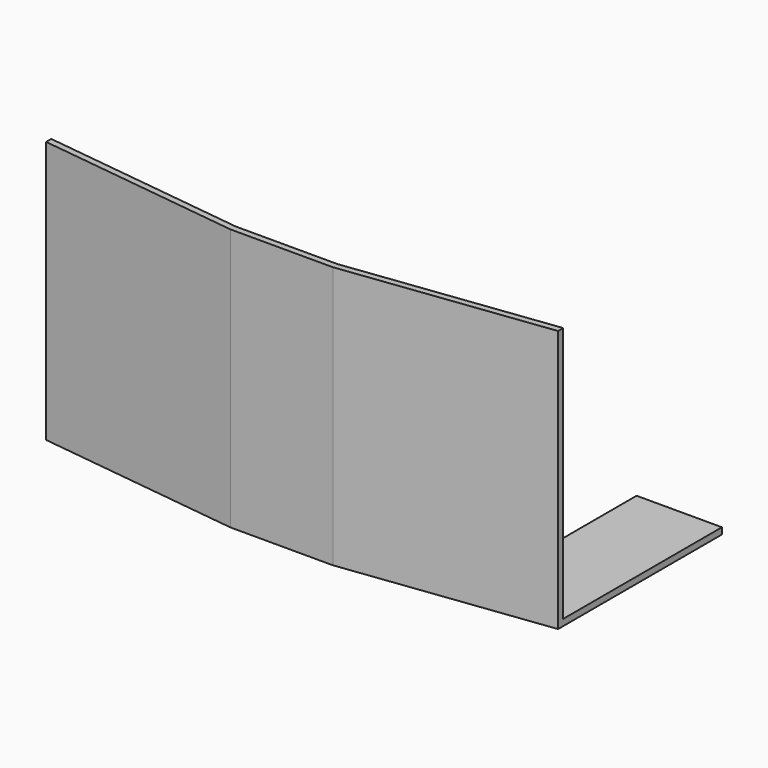
from build123d import *

# Parameters (mm, degrees)
F1_DEPTH = 19.05
F3_DEPTH = 762


with BuildPart() as f1:
    # F0 (on Top) → F1 (new body)
    with BuildSketch(Plane.XY):
        Polygon((-762, -463.445372), (-152.4, -539.645372), (0, -539.645372), (152.4, -539.645372), (762, -463.445372), (762, 146.154628), (508, 146.154628), (508, -412.645372), (0, -412.645372), (-508, -412.645372), (-508, 146.154628), (-762, 146.154628), align=None)
    extrude(amount=F1_DEPTH)

    # F2 (on face) → F3 (join)
    with BuildSketch(Plane.XY.offset(19.05)):
        Polygon((-151.21399, -520.595372), (-762, -444.24712), (-762, -463.445372), (-152.4, -539.645372), (152.4, -539.645372), (762, -463.445372), (762, -444.24712), (151.21399, -520.595372), align=None)
    extrude(amount=F3_DEPTH)


solid = f1.part
